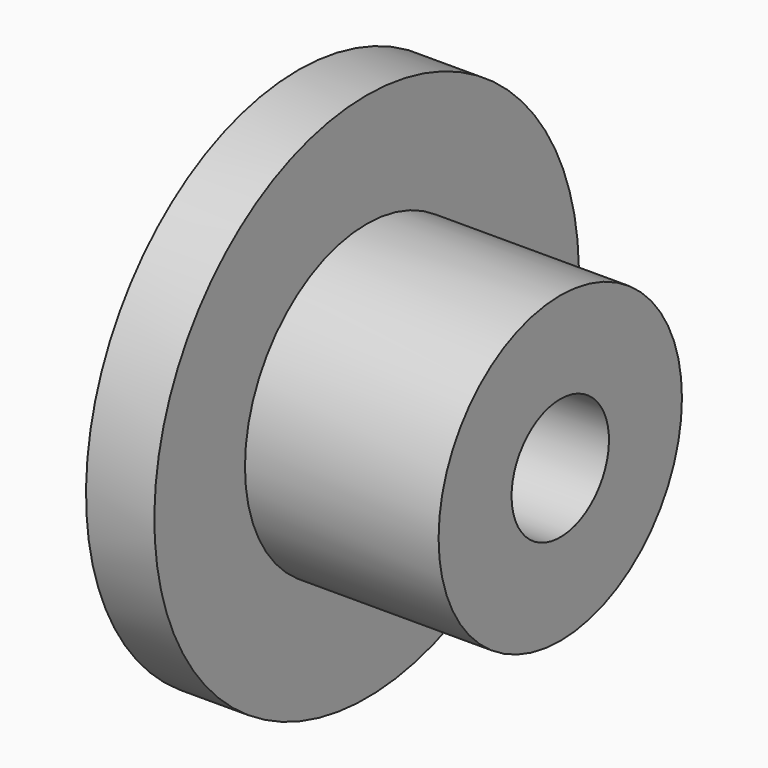
from build123d import *

# Parameters (mm, degrees)
F0_W   = 41.969135
F0_H   = 19.774936
F0_W_2 = 14.811993
F0_H_2 = 24.549886


with BuildPart() as f2:
    # F0 (on Front) → F2 (revolve)
    with BuildSketch(Plane.XZ):
        with Locations((-3.484242, 23.07928)):
            Rectangle(F0_W, F0_H)
        with Locations((-31.874806, 45.241691)):
            Rectangle(F0_W_2, F0_H_2)
        with Locations((-31.874806, 23.07928)):
            Rectangle(F0_W_2, F0_H)
    revolve(axis=Axis((-11.279143, 0, 0), (1, 0, 0)))


solid = f2.part
